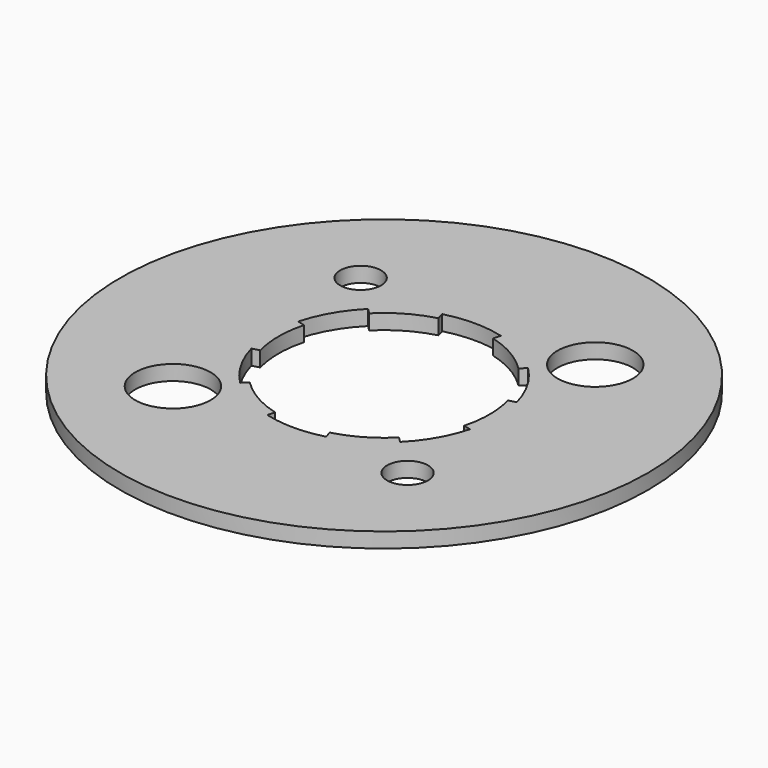
from build123d import *

# Parameters (mm, degrees)
F0_R     = 27.78125
F0_R_2   = 3.96875
F0_R_3   = 2.15265
F0_R_4   = 11.1125
F1_DEPTH = 1.5875
F3_DEPTH = 1.5875
F4_COUNT = 6
F4_ANGLE = 300


with BuildPart() as f1:
    # F0 (on Top) → F1 (new body)
    with BuildSketch(Plane.XY):
        Circle(F0_R)
        with Locations((-12.3478521665, -12.3478521665)):
            Circle(F0_R_2, mode=Mode.SUBTRACT)
        with Locations((12.3478521665, -12.3478521665)):
            Circle(F0_R_3, mode=Mode.SUBTRACT)
        with Locations((-12.3478521665, 12.3478521665)):
            Circle(F0_R_3, mode=Mode.SUBTRACT)
        Circle(F0_R_4, mode=Mode.SUBTRACT)
        with Locations((12.3478521665, 12.3478521665)):
            Circle(F0_R_2, mode=Mode.SUBTRACT)
    extrude(amount=F1_DEPTH)

    # F2 (on face) → F3 (cut, through all)
    with BuildSketch(Plane.XY.offset(1.5875)):
        with BuildLine():
            Line((-3.0815642558, 11.5005543693), (-2.8761266387, 10.7338507446))
            ThreePointArc((-2.8761266387, 10.7338507446), (0, 11.1125), (2.8761266387, 10.7338507446))
            Line((2.8761266387, 10.7338507446), (3.0815642558, 11.5005543693))
            ThreePointArc((3.0815642558, 11.5005543693), (0, 11.90625), (-3.0815642558, 11.5005543693))
        make_face()
    f3 = extrude(amount=-F3_DEPTH, mode=Mode.SUBTRACT)

    # F4: F3 ×6 about axis
    f4_axis = Axis((0, 0, 0), (0, 0, -1))
    for i in range(1, F4_COUNT):
        add(f3.rotate(f4_axis, i * F4_ANGLE / (F4_COUNT - 1)), mode=Mode.SUBTRACT)


solid = f1.part
